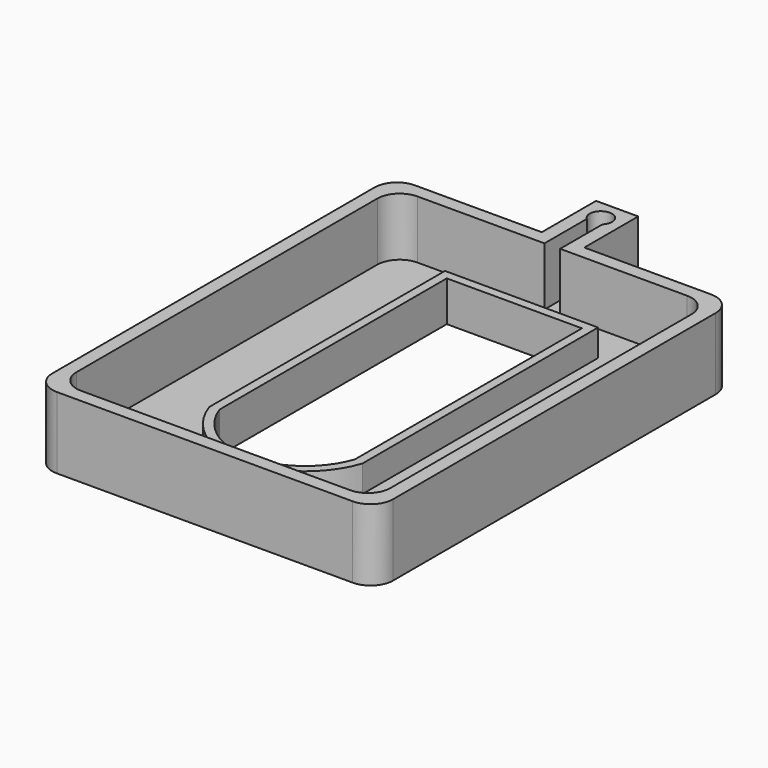
from build123d import *

# Parameters (mm, degrees)
F1_DEPTH = 16
F2_DEPTH = 9
F3_DEPTH = 3
F4_R     = 5


with BuildPart() as f1:
    # F0 (on Top) → F1 (new body)
    with BuildSketch(Plane.XY):
        Polygon((-38, 50.473494), (-38, -49.5), (38.100001, -49.5), (38.100001, 50.576335), (4.759095, 50.574917), (4.759095, 65.630205), (-4.659094, 65.630205), (-4.659094, 50.474911), align=None)
        with BuildLine():
            ThreePointArc((-1.659094, 59.282516), (-1.025248, 63.432754), (2.5, 61.152652))
            ThreePointArc((2.5, 61.152652), (2.307351, 60.190295), (1.759095, 59.376255))
            Line((1.759095, 59.376255), (1.759095, 47.574789))
            Line((1.759095, 47.574789), (35.100001, 47.576207))
            Line((35.100001, 47.576207), (35.100001, -46.5))
            Line((35.100001, -46.5), (-35, -46.5))
            Line((-35, -46.5), (-35, 47.473621))
            Line((-35, 47.473621), (-1.659094, 47.475039))
            Line((-1.659094, 47.475039), (-1.659094, 59.282516))
        make_face(mode=Mode.SUBTRACT)
    extrude(amount=F1_DEPTH)

    # F4
    f4_edges = [f1.edges().sort_by_distance(p)[0] for p in [
        (-38, 50.473494, 8),
        (-38, -49.5, 8),
        (38.100001, -49.5, 8),
        (38.100001, 50.576335, 8),
        (35.100001, 47.576207, 8),
        (-35, 47.473621, 8),
        (35.100001, -46.5, 8),
        (-35, -46.5, 8),
    ]]
    fillet(f4_edges, radius=F4_R)


with BuildPart() as f2:
    # F0 (on Top) → F2 (new body)
    with BuildSketch(Plane.XY):
        with BuildLine():
            Line((17.100001, 39), (-17.100001, 39))
            Line((-17.100001, 39), (-17.100001, -26.776899))
            ThreePointArc((-17.100001, -26.776899), (-10.968907, -35.47542), (-1.04936, -39.329919))
            Line((-1.04936, -39.329919), (1.04936, -39.329919))
            ThreePointArc((1.04936, -39.329919), (10.968907, -35.47542), (17.100001, -26.776899))
            Line((17.100001, -26.776899), (17.100001, 39))
        make_face()
        with BuildLine():
            Line((-15.100001, -26.443695), (-15.100001, 37))
            Line((-15.100001, 37), (15.100001, 37))
            Line((15.100001, 37), (15.100001, -26.443695))
            ThreePointArc((15.100001, -26.443695), (9.642296, -33.973369), (0.969573, -37.329919))
            Line((0.969573, -37.329919), (-0.969573, -37.329919))
            ThreePointArc((-0.969573, -37.329919), (-9.642296, -33.973369), (-15.100001, -26.443695))
        make_face(mode=Mode.SUBTRACT)
    extrude(amount=F2_DEPTH)


with BuildPart() as f3:
    # F0 (on Top) → F3 (new body)
    with BuildSketch(Plane.XY):
        with BuildLine():
            ThreePointArc((1.759095, 59.376255), (0.068533, 58.653591), (-1.659094, 59.282516))
            Line((-1.659094, 59.282516), (-1.659094, 47.475039))
            Line((-1.659094, 47.475039), (-35, 47.473621))
            Line((-35, 47.473621), (-35, -46.5))
            Line((-35, -46.5), (35.100001, -46.5))
            Line((35.100001, -46.5), (35.100001, 47.576207))
            Line((35.100001, 47.576207), (1.759095, 47.574789))
            Line((1.759095, 47.574789), (1.759095, 59.376255))
        make_face()
        with BuildLine():
            Line((-17.100001, -26.776899), (-17.100001, 39))
            Line((-17.100001, 39), (17.100001, 39))
            Line((17.100001, 39), (17.100001, -26.776899))
            ThreePointArc((17.100001, -26.776899), (10.968907, -35.47542), (1.04936, -39.329919))
            Line((1.04936, -39.329919), (-1.04936, -39.329919))
            ThreePointArc((-1.04936, -39.329919), (-10.968907, -35.47542), (-17.100001, -26.776899))
        make_face(mode=Mode.SUBTRACT)
    extrude(amount=F3_DEPTH)


solid = Compound([f1.part, f2.part, f3.part])
